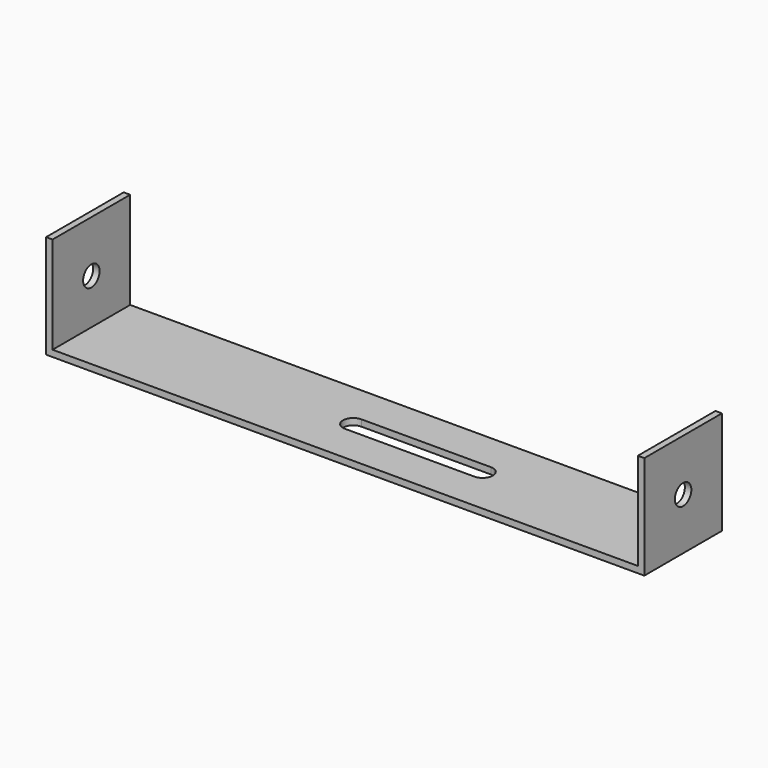
from build123d import *

# Parameters (mm, degrees)
F0_W     = 30
F0_H     = 2
F1_DEPTH = 92.5
F2_W     = 30
F2_H     = 30
F3_DEPTH = 2
F4_W     = 30
F4_H     = 30
F5_DEPTH = 2
F6_R     = 3.175
F7_DEPTH = 250
F9_DEPTH = 25


with BuildPart() as f1:
    # F0 (on Right) → F1 (new body, symmetric)
    with BuildSketch(Plane.YZ):
        Rectangle(F0_W, F0_H)
    extrude(amount=F1_DEPTH, both=True)

    # F2 (on face) → F3 (join)
    with BuildSketch(Plane.YZ.offset(92.5)):
        with Locations((0, 16)):
            Rectangle(F2_W, F2_H)
    extrude(amount=-F3_DEPTH)

    # F4 (on face) → F5 (join)
    with BuildSketch(Plane(origin=(-92.5, 0, 0), x_dir=(0, -1, 0), z_dir=(-1, 0, 0))):
        with Locations((0, 16)):
            Rectangle(F4_W, F4_H)
    extrude(amount=-F5_DEPTH)

    # F6 (on face) → F7 (cut)
    with BuildSketch(Plane.YZ.offset(92.5)):
        with Locations((0, 15)):
            Circle(F6_R)
    extrude(amount=-F7_DEPTH, mode=Mode.SUBTRACT)

    # F8 (on face) → F9 (cut)
    with BuildSketch(Plane(origin=(0, 0, -1), x_dir=(1, 0, 0), z_dir=(0, 0, -1))):
        with BuildLine():
            ThreePointArc((30.5, -3.175), (32.7450640303, -2.2450640303), (33.675, 0))
            ThreePointArc((33.675, 0), (32.7450640303, 2.2450640303), (30.5, 3.175))
            ThreePointArc((30.5, 3.175), (27.325, 0), (30.5, -3.175))
        make_face()
        with BuildLine():
            ThreePointArc((30.5, -3.175), (27.325, 0), (30.5, 3.175))
            Line((30.5, 3.175), (-9.5, 3.175))
            ThreePointArc((-9.5, 3.175), (-7.2549359697, 2.2450640303), (-6.325, 0))
            ThreePointArc((-6.325, 0), (-7.2549359697, -2.2450640303), (-9.5, -3.175))
            Line((-9.5, -3.175), (30.5, -3.175))
        make_face()
        with BuildLine():
            ThreePointArc((-6.325, 0), (-7.2549359697, 2.2450640303), (-9.5, 3.175))
            ThreePointArc((-9.5, 3.175), (-12.675, 0), (-9.5, -3.175))
            ThreePointArc((-9.5, -3.175), (-7.2549359697, -2.2450640303), (-6.325, 0))
        make_face()
    extrude(amount=-F9_DEPTH, mode=Mode.SUBTRACT)


solid = f1.part
